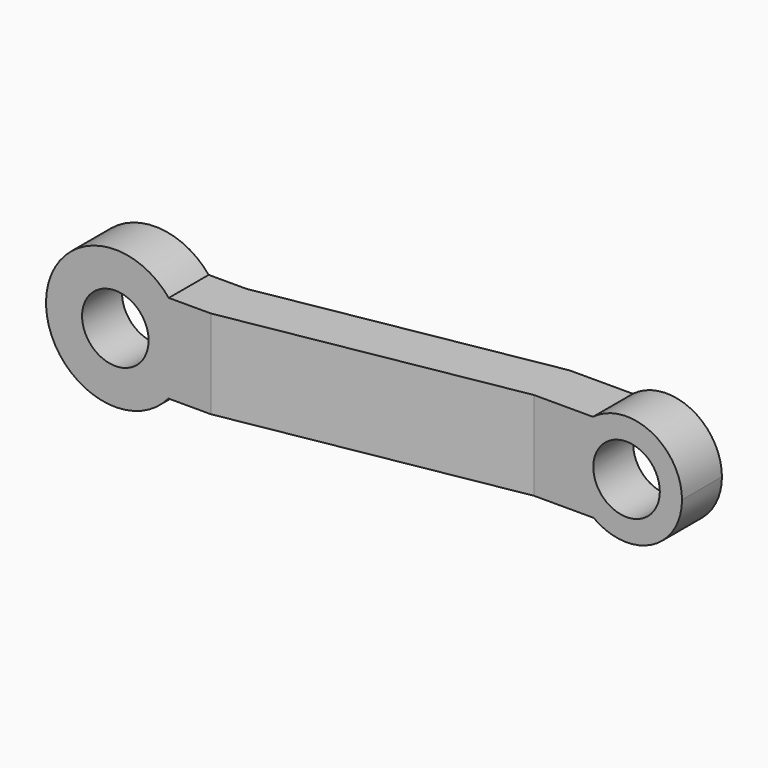
from build123d import *

# Parameters (mm, degrees)
F0_R     = 6
F1_DEPTH = 25
F3_DEPTH = 12.5


with BuildPart() as f1:
    # F0 (on Front) → F1 (new body)
    with BuildSketch(Plane.XZ):
        with BuildLine():
            ThreePointArc((-34.439272, -8.041347), (-32.264663, -4.27924), (-31.509368, 0))
            ThreePointArc((-31.509368, 0), (-32.24635, 4.228641), (-34.370393, 7.958653))
            ThreePointArc((-34.370393, 7.958653), (-56.509252, 0.053811), (-34.439272, -8.041347))
        make_face()
        with Locations((-44.009368, 0)):
            Circle(F0_R, mode=Mode.SUBTRACT)
        with BuildLine():
            ThreePointArc((-34.370393, 7.958653), (-32.24635, 4.228641), (-31.509368, 0))
            ThreePointArc((-31.509368, 0), (-32.264663, -4.27924), (-34.439272, -8.041347))
            Line((-34.439272, -8.041347), (35.046161, -8.041347))
            ThreePointArc((35.046161, -8.041347), (30.99087, -0.068914), (34.935895, 7.958653))
            Line((34.935895, 7.958653), (-34.370393, 7.958653))
        make_face()
        with BuildLine():
            ThreePointArc((50.990632, 0), (45.432064, 8.959558), (34.935895, 7.958653))
            ThreePointArc((34.935895, 7.958653), (30.99087, -0.068914), (35.046161, -8.041347))
            ThreePointArc((35.046161, -8.041347), (45.493703, -8.928738), (50.990632, 0))
        make_face()
        with Locations((40.990632, 0)):
            Circle(F0_R, mode=Mode.SUBTRACT)
    extrude(amount=F1_DEPTH)

    # F2 (on Top) → F3 (intersect, symmetric)
    with BuildSketch(Plane.XY):
        Polygon((-27.554982, -9), (-56.499865, -9), (-56.499865, -18), (-26.767584, -18), (24.273953, -9), (51.126346, -9), (51.126346, 0), (23.486555, 0), align=None)
    extrude(amount=F3_DEPTH, both=True, mode=Mode.INTERSECT)


solid = f1.part
